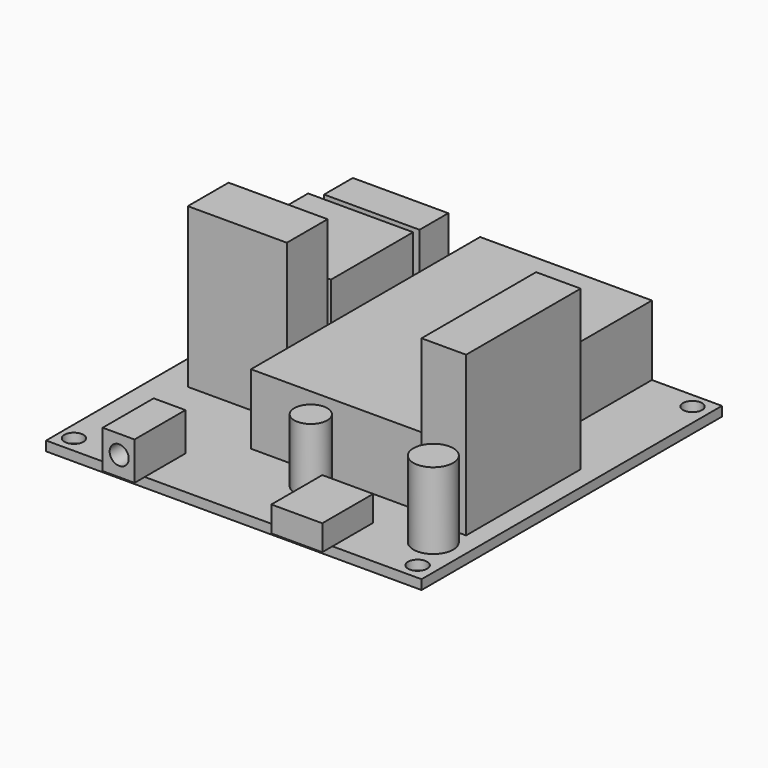
from build123d import *

# Parameters (mm, degrees)
F0_W      = 59
F0_H      = 59
F1_DEPTH  = 1.5
F3_D      = 3
F3_DEPTH  = 3
F3_TIP    = 0.9012909285
F2_W      = 27
F2_H      = 45
F4_DEPTH  = 11
F2_W_2    = 7
F2_H_2    = 22.5
F5_DEPTH  = 25
F2_W_3    = 15
F2_H_3    = 5.6414641738
F6_DEPTH  = 16
F2_W_4    = 16.4975724295
F2_H_4    = 16.1418512762
F7_DEPTH  = 16
F2_W_5    = 15.5616942793
F2_H_5    = 8
F8_DEPTH  = 25
F2_W_6    = 5
F9_DEPTH  = 6
F2_R      = 3.1285701803
F10_DEPTH = 12
F11_W     = 5
F11_H     = 6
F12_DEPTH = 2
F14_D     = 3
F14_DEPTH = 6
F14_TIP   = 0.9012909285
F2_W_7    = 8
F15_DEPTH = 4
F16_W     = 8
F16_H     = 4
F17_DEPTH = 2
F2_R_2    = 2.591599319
F18_DEPTH = 10


with BuildPart() as f1:
    # F0 (on Top) → F1 (new body)
    with BuildSketch(Plane.XY):
        Rectangle(F0_W, F0_H)
    extrude(amount=F1_DEPTH)

    # F3
    with Locations(Plane.XY.offset(1.5)):
        with Locations((26.8, -26.9), (-27.2, -26.9), (-27.2, 27.1), (26.8, 27.1)):
            Hole(F3_D / 2, depth=F3_DEPTH)
            with Locations((0, 0, -(F3_DEPTH + F3_TIP / 2))):  # 118° drill point
                Cone(0, F3_D / 2, F3_TIP, mode=Mode.SUBTRACT)

    # F2 (on face) → F4 (join)
    with BuildSketch(Plane.XY.offset(1.5)):
        with Locations((5, 7)):
            Rectangle(F2_W, F2_H)
    extrude(amount=F4_DEPTH)

    # F2 (on face) → F5 (join)
    with BuildSketch(Plane.XY.offset(1.5)):
        with Locations((23, -5.75)):
            Rectangle(F2_W_2, F2_H_2)
    extrude(amount=F5_DEPTH)

    # F2 (on face) → F6 (join)
    with BuildSketch(Plane.XY.offset(1.5)):
        with Locations((-17, 21.6792679131)):
            Rectangle(F2_W_3, F2_H_3)
    extrude(amount=F6_DEPTH)

    # F2 (on face) → F7 (join)
    with BuildSketch(Plane.XY.offset(1.5)):
        with Locations((-17.9585402422, 9.7876101881)):
            Rectangle(F2_W_4, F2_H_4)
    extrude(amount=F7_DEPTH)

    # F2 (on face) → F8 (join)
    with BuildSketch(Plane.XY.offset(1.5)):
        with Locations((-17.0449977741, -3.5)):
            Rectangle(F2_W_5, F2_H_5)
    extrude(amount=F8_DEPTH)

    # F2 (on face) → F9 (join)
    with BuildSketch(Plane.XY.offset(1.5)):
        with Locations((-16.5, -25.5)):
            Rectangle(F2_W_6, F2_H_5)
        with Locations((-17.0449977741, -3.5)):
            Rectangle(F2_W_5, F2_H_5)
    extrude(amount=F9_DEPTH)

    # F2 (on face) → F10 (join)
    with BuildSketch(Plane.XY.offset(1.5)):
        with Locations((24.5, -20.9337305278)):
            Circle(F2_R)
    extrude(amount=F10_DEPTH)

    # F11 (on face) → F12 (join)
    with BuildSketch(Plane.XZ.offset(29.5)):
        with Locations((-16.5, 4.5)):
            Rectangle(F11_W, F11_H)
    extrude(amount=F12_DEPTH)

    # F14
    with Locations(Plane.XZ.offset(31.5)):
        with Locations((-16.4128988981, 4.5567261986)):
            Hole(F14_D / 2, depth=F14_DEPTH)
            with Locations((0, 0, -(F14_DEPTH + F14_TIP / 2))):  # 118° drill point
                Cone(0, F14_D / 2, F14_TIP, mode=Mode.SUBTRACT)

    # F2 (on face) → F15 (join)
    with BuildSketch(Plane.XY.offset(1.5)):
        with Locations((11.5, -25.5)):
            Rectangle(F2_W_7, F2_H_5)
    extrude(amount=F15_DEPTH)

    # F16 (on face) → F17 (join)
    with BuildSketch(Plane.XZ.offset(29.5)):
        with Locations((11.5, 3.5)):
            Rectangle(F16_W, F16_H)
    extrude(amount=F17_DEPTH)

    # F2 (on face) → F18 (join)
    with BuildSketch(Plane.XY.offset(1.5)):
        with Locations((3.5, -18.7545120716)):
            Circle(F2_R_2)
    extrude(amount=F18_DEPTH)


solid = f1.part
